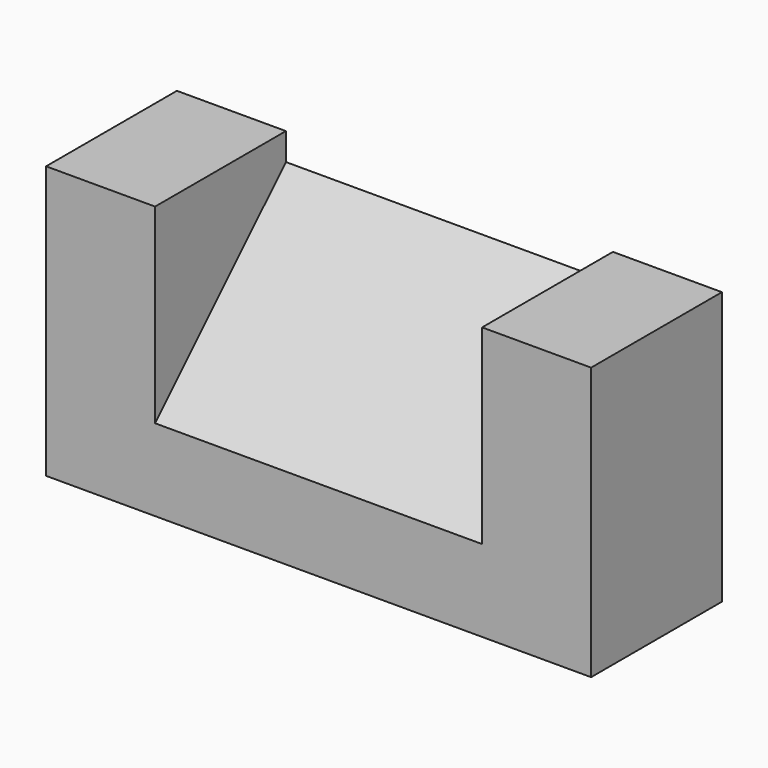
from build123d import *

# Parameters (mm, degrees)
F0_W     = 38.1
F0_H     = 19.05
F1_DEPTH = 127
F2_W     = 38.1
F2_H     = 44.45
F2_H_2   = 19.05
F3_DEPTH = 25.4
F5_DEPTH = 76.2
F6_W     = 38.1
F6_H     = 44.45
F7_DEPTH = 25.4


with BuildPart() as f1:
    # F0 (on Right) → F1 (new body)
    with BuildSketch(Plane.YZ):
        with Locations((-43.197103, -19.48836)):
            Rectangle(F0_W, F0_H)
    extrude(amount=-F1_DEPTH)

    # F2 (on face) → F3 (join)
    with BuildSketch(Plane.YZ):
        with Locations((-43.197103, 12.26164)):
            Rectangle(F2_W, F2_H)
        with Locations((-43.197103, -19.48836)):
            Rectangle(F2_W, F2_H_2)
    extrude(amount=-F3_DEPTH)

    # F4 (on face) → F5 (join)
    with BuildSketch(Plane(origin=(-25.4, 0, 0), x_dir=(0, -1, 0), z_dir=(-1, 0, 0))):
        Polygon((24.147103, -9.96336), (62.247103, -9.96336), (24.147103, 28.13664), align=None)
    extrude(amount=F5_DEPTH)

    # F6 (on face) → F7 (join)
    with BuildSketch(Plane(origin=(-127, 0, 0), x_dir=(0, -1, 0), z_dir=(-1, 0, 0))):
        with Locations((43.197103, 12.26164)):
            Rectangle(F6_W, F6_H)
        with Locations((43.197103, 12.26164)):
            Rectangle(F6_W, F6_H)
    extrude(amount=-F7_DEPTH)


solid = f1.part
